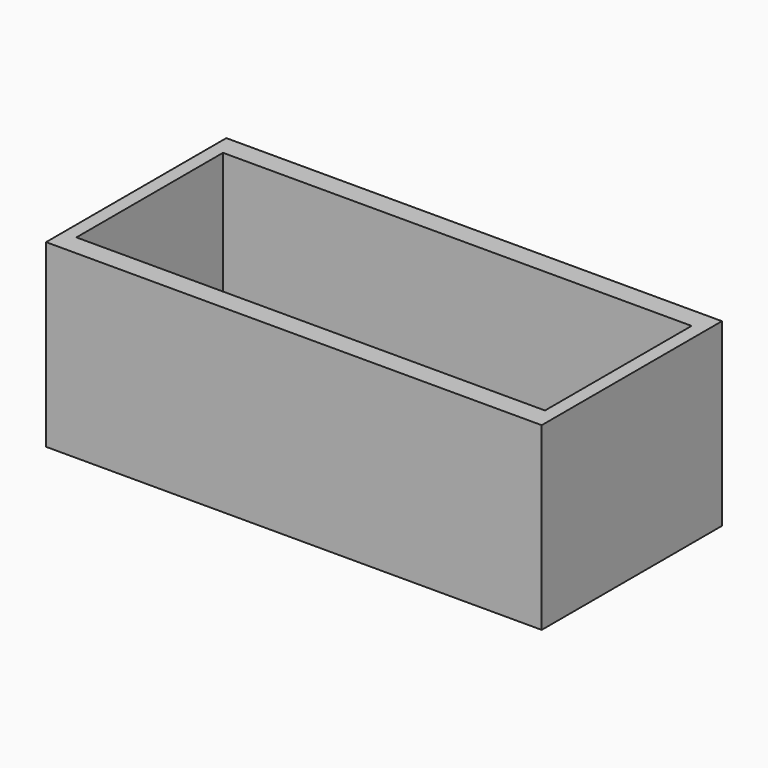
from build123d import *

# Parameters (mm, degrees)
F0_W     = 33
F0_H     = 15
F1_DEPTH = 12
F2_W     = 31.2
F2_H     = 12.2
F3_DEPTH = 10
F4_W     = 30
F4_H     = 11
F5_DEPTH = 12.001


with BuildPart() as f1:
    # F0 (on Top) → F1 (new body)
    with BuildSketch(Plane.XY):
        with Locations((16.5, 7.5)):
            Rectangle(F0_W, F0_H)
    extrude(amount=F1_DEPTH)

    # F2 (on face) → F3 (cut)
    with BuildSketch(Plane.XY.offset(12)):
        with Locations((16.5, 7.5)):
            Rectangle(F2_W, F2_H)
    extrude(amount=-F3_DEPTH, mode=Mode.SUBTRACT)

    # F4 (on face) → F5 (cut, through all)
    with BuildSketch(Plane(origin=(0, 0, 0), x_dir=(1, 0, 0), z_dir=(0, 0, -1))):
        with Locations((16.5, -7.5)):
            Rectangle(F4_W, F4_H)
    extrude(amount=-F5_DEPTH, mode=Mode.SUBTRACT)


solid = f1.part
